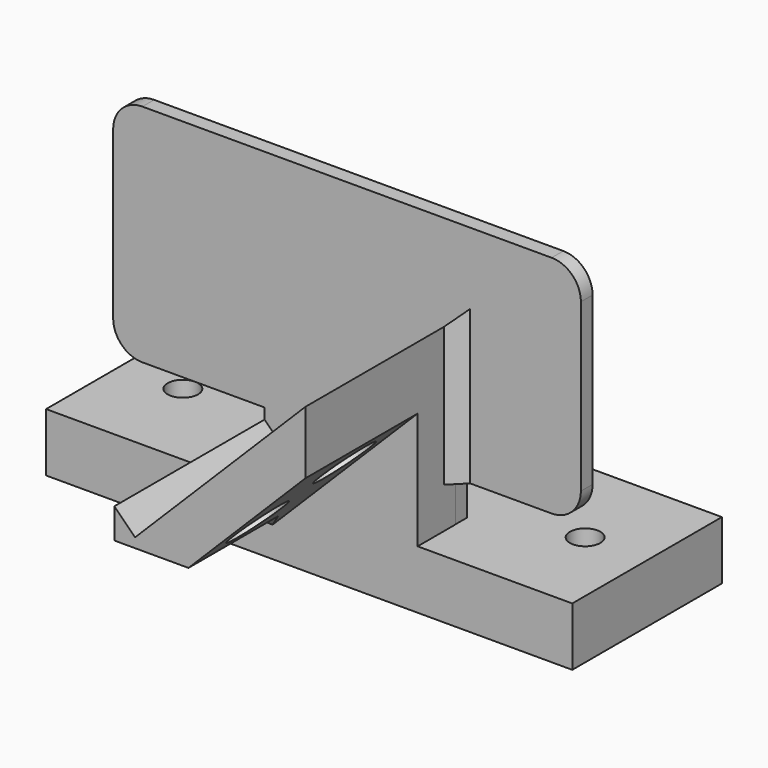
from build123d import *

# Parameters (mm, degrees)
SKETCH064_W       = 57.15
SKETCH064_H       = 20.32
SKETCH064_R       = 1.651
PAD021_DEPTH      = 3.175
PAD002_DEPTH      = 15.24
PAD002_DEPTH_BACK = 5.1402
CHAMFER006_SIZE   = 12.7
CHAMFER001_SIZE   = 3.048
SKETCH004_R       = 3.2131
POCKET001_DEPTH   = 3.81762
PAD022_DEPTH      = 25.4
SKETCH006_W       = 20.744392
SKETCH006_H       = 4.445
PAD023_DEPTH      = 1.5875
PAD005_DEPTH      = 19.05
CHAMFER007_SIZE   = 1.5875
FILLET_R          = 3.175
FILLET003_R       = 0.499999
CHAMFER008_SIZE   = 0.499999


with BuildPart() as part:
    # Sketch064 → Pad021 (new body, symmetric)
    with BuildSketch(Plane.XY):
        with Locations((28.575, 10.16)):
            Rectangle(SKETCH064_W, SKETCH064_H)
        with Locations((6.731, 10.16)):
            Circle(SKETCH064_R, mode=Mode.SUBTRACT)
        with Locations((50.419, 10.16)):
            Circle(SKETCH064_R, mode=Mode.SUBTRACT)
    extrude(amount=PAD021_DEPTH, both=True)

    # Sketch003 → Pad002 (join, two sides)
    with BuildSketch(Plane.XZ) as pad002_sk:
        Polygon((40.356813, 3.175), (40.356813, 22.711586), (21.857486, 4.212258), (19.612422, 6.457322), (19.612422, 3.175), align=None)
    extrude(amount=PAD002_DEPTH)
    extrude(pad002_sk.sketch, amount=-PAD002_DEPTH_BACK)

    # Chamfer006
    chamfer006_edges = [part.edges().sort_by_distance(p)[0] for p in [
        (40.356813, -7.62, 3.175),
    ]]
    chamfer(chamfer006_edges, length=CHAMFER006_SIZE)

    # Chamfer001
    chamfer001_edges = [part.edges().sort_by_distance(p)[0] for p in [
        (23.634617, 0, 3.175),
    ]]
    chamfer(chamfer001_edges, length=CHAMFER001_SIZE)

    # Sketch004 (on Face2 of Chamfer001) → Pocket001 (cut)
    with BuildSketch(Plane(origin=(12.240907, 0, -12.240907), x_dir=(0, 1, 0), z_dir=(0.707107, 0, -0.707107))):
        with Locations((-10.16, 26.67)):
            Circle(SKETCH004_R)
        with Locations((-5.08, 34.29)):
            Circle(SKETCH004_R)
    extrude(amount=-POCKET001_DEPTH, mode=Mode.SUBTRACT)

    # Sketch005 → Pad022 (join, symmetric)
    with BuildSketch(Plane.YZ.offset(28.575)):
        Polygon((6.7277, 25.84045), (6.7277, 32.075), (5.1402, 32.075), (5.1402, 7.62), (6.7277, 7.62), (6.7277, 24.25295), align=None)
    extrude(amount=PAD022_DEPTH, both=True)

    # Sketch006 → Pad023 (join)
    with BuildSketch(Plane(origin=(0, 5.1402, 0), x_dir=(-1, 0, 0), z_dir=(0, 1, 0))):
        with Locations((-29.96694, 5.3975)):
            Rectangle(SKETCH006_W, SKETCH006_H)
    extrude(amount=PAD023_DEPTH)

    # Sketch007 → Pad005 (join, symmetric)
    with BuildSketch(Plane.YZ.offset(28.575)):
        with BuildLine():
            ThreePointArc((6.7277, 21.07795), (10.423083, 22.608632), (11.95375, 26.304021))
            Line((11.95375, 26.304021), (11.95375, 27.8915))
            Line((10.36625, 27.8915), (11.95375, 27.8915))
            Line((10.36625, 26.304), (10.36625, 27.8915))
            ThreePointArc((6.7277, 22.66545), (9.300543, 23.731157), (10.36625, 26.304))
            Line((6.7277, 22.66545), (6.7277, 21.07795))
        make_face()
    extrude(amount=PAD005_DEPTH, both=True)

    # Chamfer007
    chamfer007_edges = [part.edges().sort_by_distance(p)[0] for p in [
        (40.356813, 5.1402, 15.165793),
    ]]
    chamfer(chamfer007_edges, length=CHAMFER007_SIZE)

    # Fillet
    fillet_edges = [part.edges().sort_by_distance(p)[0] for p in [
        (53.975, 5.93395, 32.075),
        (53.975, 5.93395, 7.62),
        (3.175, 5.93395, 7.62),
        (3.175, 5.93395, 32.075),
        (9.525, 11.16, 27.8915),
        (47.625, 11.16, 27.8915),
    ]]
    fillet(fillet_edges, radius=FILLET_R)

    # Fillet003
    fillet003_edges = [part.edges().sort_by_distance(p)[0] for p in [
        (28.575, 11.95375, 27.8915),
        (28.575, 10.36625, 27.8915),
    ]]
    fillet(fillet003_edges, radius=FILLET003_R)

    # Chamfer008
    chamfer008_edges = [part.edges().sort_by_distance(p)[0] for p in [
        (28.575, 6.7277, 22.66545),
    ]]
    chamfer(chamfer008_edges, length=CHAMFER008_SIZE)


with BuildPart() as part_1:
    # Body009 placement: moved
    add(part.part.moved(Location((-28.555, 2.545, -3.175))))


solid = part_1.part
